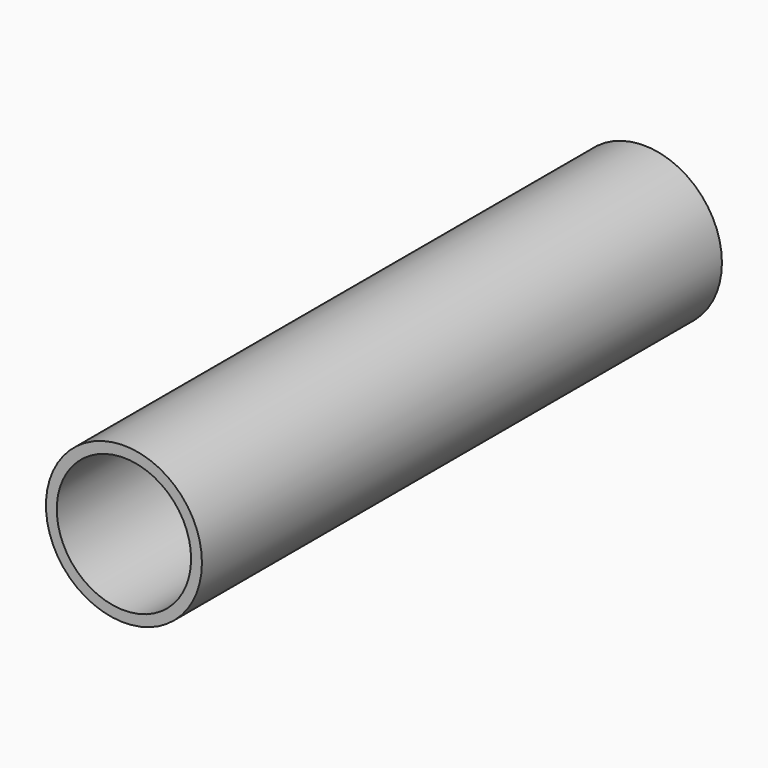
from build123d import *

# Parameters (mm, degrees)
F0_R     = 9
F1_DEPTH = 75
F2_R     = 7.75
F3_DEPTH = 65
F4_R     = 5.8
F5_DEPTH = 75.001


with BuildPart() as f1:
    # F0 (on Front) → F1 (new body)
    with BuildSketch(Plane.XZ):
        Circle(F0_R)
    extrude(amount=F1_DEPTH)

    # F2 (on face) → F3 (cut)
    with BuildSketch(Plane.XZ.offset(75)):
        Circle(F2_R)
    extrude(amount=-F3_DEPTH, mode=Mode.SUBTRACT)

    # F4 (on face) → F5 (cut, through all)
    with BuildSketch(Plane(origin=(0, 0, 0), x_dir=(-1, 0, 0), z_dir=(0, 1, 0))):
        Circle(F4_R)
    extrude(amount=-F5_DEPTH, mode=Mode.SUBTRACT)


solid = f1.part
